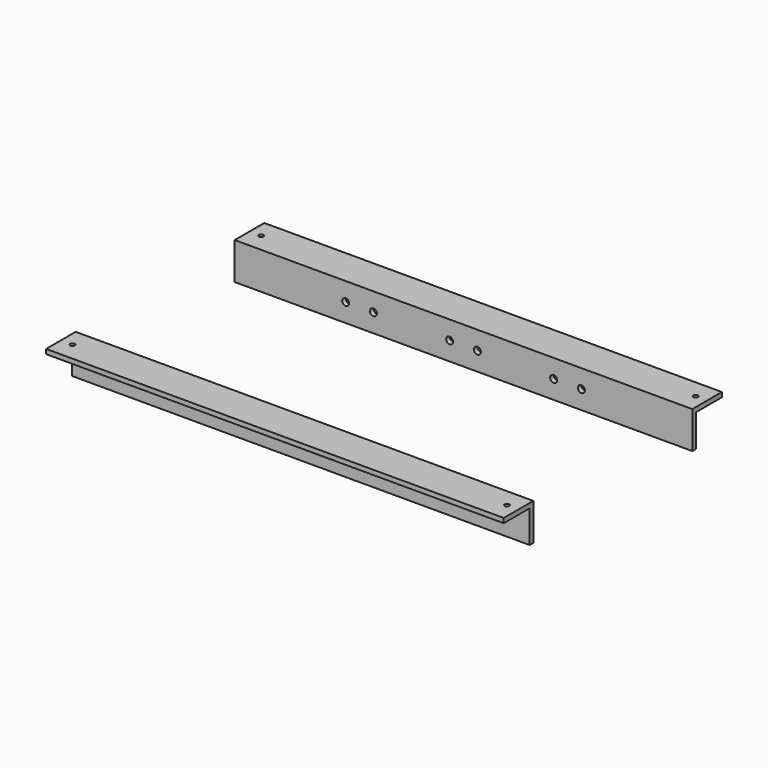
from build123d import *

# Parameters (mm, degrees)
F1_DEPTH      = 314.325
F2_R          = 3.175
F3_DEPTH      = 50.801
F4_R          = 4.7625
F5_DEPTH      = 50.801
F5_DEPTH_BACK = 323.851


with BuildPart() as f1:
    # F0 (on Right) → F1 (new body, symmetric)
    with BuildSketch(Plane.YZ):
        Polygon((0, 44.45), (0, 0), (6.35, 0), (6.35, 50.8), (-44.45, 50.8), (-44.45, 44.45), align=None)
    extrude(amount=F1_DEPTH, both=True)


with BuildPart() as f1b:
    # F0 (on Right) → F1, piece 2 (new body, symmetric)
    with BuildSketch(Plane.YZ):
        Polygon((330.2, 44.45), (330.2, 50.8), (279.4, 50.8), (279.4, 0), (285.75, 0), (285.75, 44.45), align=None)
    extrude(amount=F1_DEPTH, both=True)


with BuildPart() as f3_tool:
    # F2 (on face) → F3 (new body, through all)
    with BuildSketch(Plane.XY.offset(50.8)):
        with Locations((-298.45, -19.05)):
            Circle(F2_R)
        with Locations((298.45, -19.05)):
            Circle(F2_R)
        with Locations((-298.45, 304.8)):
            Circle(F2_R)
        with Locations((298.45, 304.8)):
            Circle(F2_R)
    extrude(amount=-F3_DEPTH)


with BuildPart() as f1_1:
    add(f1.part)

    # F3: cut by f3_tool
    add(f3_tool.part, mode=Mode.SUBTRACT)


with BuildPart() as f1b_1:
    add(f1b.part)

    # F3: cut by f3_tool
    add(f3_tool.part, mode=Mode.SUBTRACT)


with BuildPart() as f5_tool:
    # F4 (on face) → F5 (new body, two sides)
    with BuildSketch(Plane(origin=(0, 6.35, 0), x_dir=(-1, 0, 0), z_dir=(0, 1, 0))) as f5_sk:
        with Locations((123.825, 25.4)):
            Circle(F4_R)
        with Locations((161.925, 25.4)):
            Circle(F4_R)
        with Locations((19.05, 25.4)):
            Circle(F4_R)
        with Locations((-19.05, 25.4)):
            Circle(F4_R)
        with Locations((-123.825, 25.4)):
            Circle(F4_R)
        with Locations((-161.925, 25.4)):
            Circle(F4_R)
    extrude(amount=-F5_DEPTH)
    extrude(f5_sk.sketch, amount=F5_DEPTH_BACK)


with BuildPart() as f1_2:
    add(f1_1.part)

    # F5: cut by f5_tool
    add(f5_tool.part, mode=Mode.SUBTRACT)


with BuildPart() as f1b_2:
    add(f1b_1.part)

    # F5: cut by f5_tool
    add(f5_tool.part, mode=Mode.SUBTRACT)


solid = Compound([f1_2.part, f1b_2.part])
